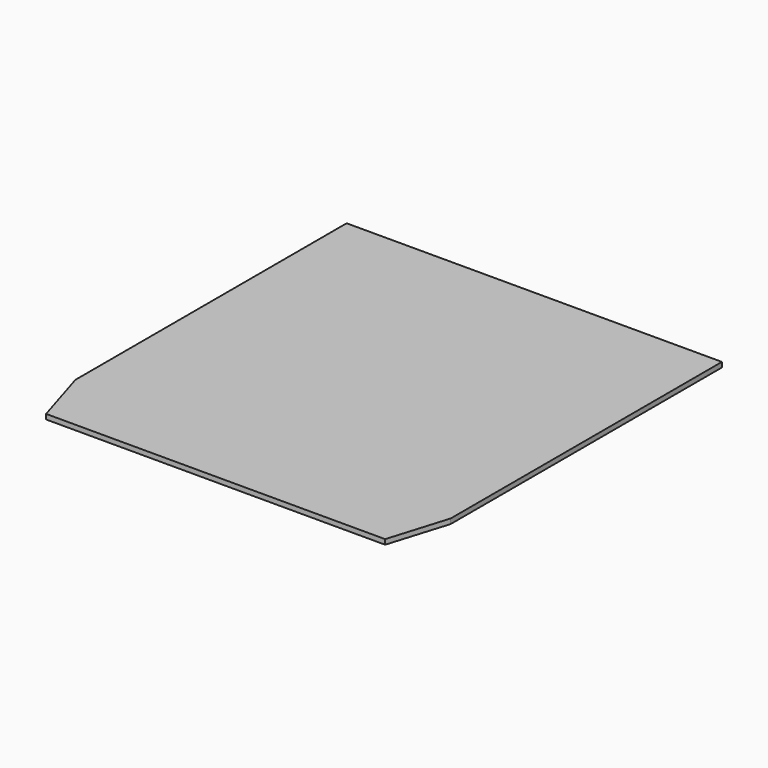
from build123d import *

# Parameters (mm, degrees)
F0_W       = 1447.8
F0_H       = 1536.7
F1_DEPTH   = 19.05
F2_SIZE2   = 69.8900337814
F2_SIZE    = 228.6
F2_2_SIZE2 = 69.8900337814
F2_2_SIZE  = 228.6


with BuildPart() as f1:
    # F0 (on Top) → F1 (new body)
    with BuildSketch(Plane.XY):
        with Locations((723.9, 768.35)):
            Rectangle(F0_W, F0_H)
    extrude(amount=F1_DEPTH)

    # F2
    f2_edges = [f1.edges().sort_by_distance(p)[0] for p in [
        (1447.8, 0, 9.525),
    ]]
    f2_side = f1.faces().sort_by_distance((1447.8, 768.35, 9.525))[0]
    chamfer(f2_edges, length=F2_SIZE, length2=F2_SIZE2, reference=f2_side)

    # F2#2
    f2_2_edges = [f1.edges().sort_by_distance(p)[0] for p in [
        (0, 0, 9.525),
    ]]
    f2_2_side = f1.faces().sort_by_distance((0, 768.35, 9.525))[0]
    chamfer(f2_2_edges, length=F2_2_SIZE, length2=F2_2_SIZE2, reference=f2_2_side)


solid = f1.part
